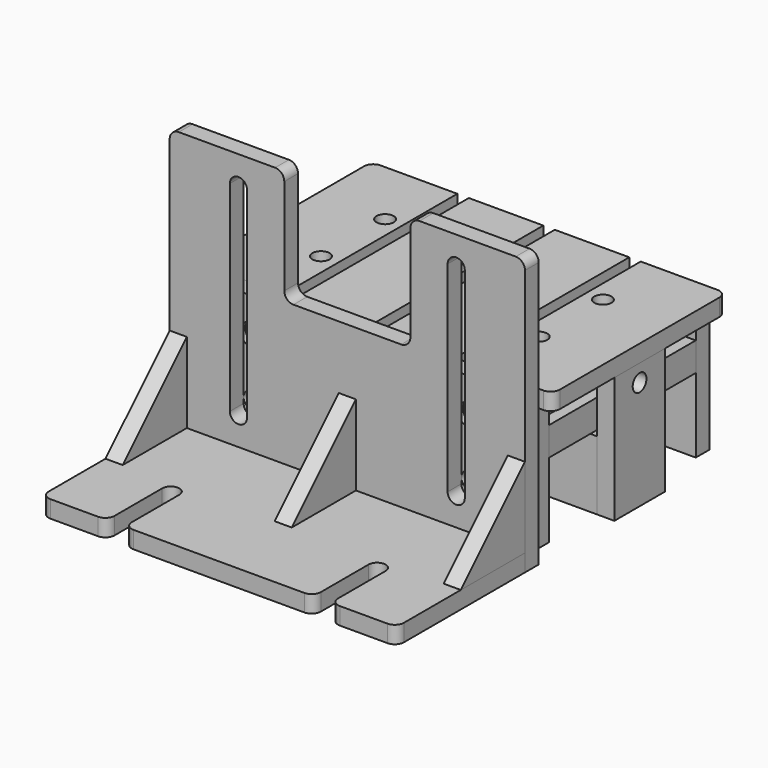
from build123d import *

# Parameters (mm, degrees)
F0_W      = 196.85
F0_H      = 120.65
F1_DEPTH  = 38.1
F3_DEPTH  = 120.651
F4_W      = 196.85
F4_H      = 120.65
F4_W_2    = 177.8
F4_H_2    = 101.6
F5_DEPTH  = 28.575
F6_W      = 6.35
F6_H      = 120.65
F7_DEPTH  = 6.35
F8_R      = 4.7625
F9_DEPTH  = 19.05
F11_DEPTH = 177.8
F10_W     = 9.525
F10_H     = 69.85
F12_R     = 6.35
F12_R_2   = 4.7625
F13_DEPTH = 3.175
F14_DEPTH = 130.176
F15_R     = 6.35
F15_R_2   = 4.7625
F16_DEPTH = 3.175
F17_DEPTH = 19.05
F12_W     = 12.7
F12_H     = 3.175
F18_DEPTH = 130.176
F19_W     = 34.925
F19_H     = 38.1
F20_DEPTH = 177.8
F21_W     = 34.925
F21_H     = 69.85
F21_R     = 4.7625
F22_DEPTH = 9.525
F24_W     = 196.85
F24_H     = 152.4
F25_DEPTH = 9.525
F26_W     = 69.85
F26_H     = 63.5
F27_DEPTH = 139.701
F28_W     = 9.525
F28_H     = 44.45
F29_DEPTH = 44.45
F31_DEPTH = 196.851
F33_DEPTH = 9.525
F34_R     = 5.08
F34_2_R   = 5.08
F34_3_R   = 5.08


with BuildPart() as f1:
    # F0 (on Top) → F1 (new body)
    with BuildSketch(Plane.XY):
        Rectangle(F0_W, F0_H)
    extrude(amount=F1_DEPTH)

    # F2 (on face) → F3 (cut, through all)
    with BuildSketch(Plane.XZ.offset(60.325)):
        Polygon((-98.425, 22.225), (-98.425, 19.05), (-98.425, 15.875), (-82.55, 15.875), (-82.55, 12.7), (-76.2, 12.7), (-76.2, 19.05), (-76.2, 25.4), (-82.55, 25.4), (-82.55, 22.225), align=None)
        Polygon((98.425, 22.225), (82.55, 22.225), (82.55, 25.4), (76.2, 25.4), (76.2, 19.05), (76.2, 12.7), (82.55, 12.7), (82.55, 15.875), (98.425, 15.875), (98.425, 19.05), align=None)
        Polygon((0, 38.1), (-3.175, 38.1), (-3.175, 31.75), (-6.35, 31.75), (-6.35, 25.4), (0, 25.4), (6.35, 25.4), (6.35, 31.75), (3.175, 31.75), (3.175, 38.1), align=None)
    extrude(amount=-F3_DEPTH, mode=Mode.SUBTRACT)

    # F4 (on face) → F5 (cut)
    with BuildSketch(Plane(origin=(0, 0, 0), x_dir=(1, 0, 0), z_dir=(0, 0, -1))):
        Rectangle(F4_W, F4_H)
        Rectangle(F4_W_2, F4_H_2, mode=Mode.SUBTRACT)
    extrude(amount=-F5_DEPTH, mode=Mode.SUBTRACT)

    # F6 (on face) → F7 (cut)
    with BuildSketch(Plane.XY.offset(38.1)):
        with Locations((-47.625, 0)):
            Rectangle(F6_W, F6_H)
        with Locations((47.625, 0)):
            Rectangle(F6_W, F6_H)
    extrude(amount=-F7_DEPTH, mode=Mode.SUBTRACT)

    # F8 (on face) → F9 (cut)
    with BuildSketch(Plane.XY.offset(38.1)):
        with Locations((-60.325, 22.225)):
            Circle(F8_R)
        with Locations((-60.325, -22.225)):
            Circle(F8_R)
        with Locations((60.325, -22.225)):
            Circle(F8_R)
        with Locations((60.325, 22.225)):
            Circle(F8_R)
    extrude(amount=-F9_DEPTH, mode=Mode.SUBTRACT)


with BuildPart() as f11:
    # F10 (on face) → F11 (new body, through all)
    with BuildSketch(Plane.YZ.offset(88.9)):
        Polygon((-50.8, -41.275), (-50.8, 28.575), (-60.325, 28.575), (-60.325, 38.1), (-69.85, 38.1), (-69.85, -41.275), align=None)
    extrude(amount=-F11_DEPTH)


with BuildPart() as f11b:
    # F10 (on face) → F11, piece 2 (new body, through all)
    with BuildSketch(Plane.YZ.offset(88.9)):
        with Locations((55.5625, -6.35)):
            Rectangle(F10_W, F10_H)
    extrude(amount=-F11_DEPTH)

    # F12 (on face) → F13 (cut)
    with BuildSketch(Plane(origin=(0, 60.325, 0), x_dir=(-1, 0, 0), z_dir=(0, 1, 0))):
        with Locations((-60.325, 19.05)):
            Circle(F12_R)
        with Locations((-60.325, 19.05)):
            Circle(F12_R_2, mode=Mode.SUBTRACT)
        with Locations((-60.325, 19.05)):
            Circle(F12_R_2)
        with Locations((60.325, 19.05)):
            Circle(F12_R)
        with Locations((60.325, 19.05)):
            Circle(F12_R_2, mode=Mode.SUBTRACT)
        with Locations((60.325, 19.05)):
            Circle(F12_R_2)
    extrude(amount=-F13_DEPTH, mode=Mode.SUBTRACT)


with BuildPart() as f14_tool:
    # F12 (on face) → F14 (new body, through all)
    with BuildSketch(Plane(origin=(0, 60.325, 0), x_dir=(-1, 0, 0), z_dir=(0, 1, 0))):
        with Locations((-60.325, 19.05)):
            Circle(F12_R_2)
        with Locations((60.325, 19.05)):
            Circle(F12_R_2)
    extrude(amount=-F14_DEPTH)


with BuildPart() as f1_1:
    add(f1.part)

    # F14: cut by f14_tool
    add(f14_tool.part, mode=Mode.SUBTRACT)

    # F34#3
    f34_3_edges = [f1_1.edges().sort_by_distance(p)[0] for p in [
        (98.425, 60.325, 33.3375),
        (98.425, -60.325, 33.3375),
        (-98.425, -60.325, 33.3375),
        (-98.425, 60.325, 33.3375),
    ]]
    fillet(f34_3_edges, radius=F34_3_R)


with BuildPart() as f11_1:
    add(f11.part)

    # F14: cut by f14_tool
    add(f14_tool.part, mode=Mode.SUBTRACT)

    # F15 (on face) → F16 (cut)
    with BuildSketch(Plane.XZ.offset(69.85)):
        with Locations((-60.325, 19.05)):
            Circle(F15_R)
        with Locations((-60.325, 19.05)):
            Circle(F15_R_2, mode=Mode.SUBTRACT)
        with Locations((60.325, 19.05)):
            Circle(F15_R)
        with Locations((60.325, 19.05)):
            Circle(F15_R_2, mode=Mode.SUBTRACT)
        with Locations((60.325, 19.05)):
            Circle(F15_R_2)
        with Locations((-60.325, 19.05)):
            Circle(F15_R_2)
    extrude(amount=-F16_DEPTH, mode=Mode.SUBTRACT)

    # F15 (on face) → F17 (cut, through all)
    with BuildSketch(Plane.XZ.offset(69.85)):
        with Locations((-60.325, -12.7)):
            Circle(F15_R_2)
        with Locations((60.325, -12.7)):
            Circle(F15_R_2)
    extrude(amount=-F17_DEPTH, mode=Mode.SUBTRACT)


with BuildPart() as f11b_1:
    add(f11b.part)

    # F14: cut by f14_tool
    add(f14_tool.part, mode=Mode.SUBTRACT)

    # F12 (on face) → F18 (cut, through all)
    with BuildSketch(Plane(origin=(0, 60.325, 0), x_dir=(-1, 0, 0), z_dir=(0, 1, 0))):
        with Locations((0, 26.9875)):
            Rectangle(F12_W, F12_H)
    extrude(amount=-F18_DEPTH, mode=Mode.SUBTRACT)


with BuildPart() as f20:
    # F19 (on face) → F20 (new body, through all)
    with BuildSketch(Plane.YZ.offset(88.9)):
        with Locations((0, -22.225)):
            Rectangle(F19_W, F19_H)
    extrude(amount=-F20_DEPTH)


with BuildPart() as f22:
    # F21 (on face) → F22 (new body)
    with BuildSketch(Plane.YZ.offset(88.9)):
        with Locations((0, -6.35)):
            Rectangle(F21_W, F21_H)
        with Locations((0, 19.05)):
            Circle(F21_R, mode=Mode.SUBTRACT)
    extrude(amount=F22_DEPTH)


with BuildPart() as f23_1:
    # F23: instance of F22
    add(f22.part.mirror(Plane.YZ))


with BuildPart() as f25:
    # F24 (on face) → F25 (new body)
    with BuildSketch(Plane.XZ.offset(69.85)):
        with Locations((0, 34.925)):
            Rectangle(F24_W, F24_H)
    extrude(amount=F25_DEPTH)

    # F26 (on face) → F27 (cut, through all)
    with BuildSketch(Plane.XZ.offset(79.375)):
        with BuildLine():
            ThreePointArc((-65.0875, -15.875), (-60.325, -20.6375), (-55.5625, -15.875))
            Line((-55.5625, -15.875), (-55.5625, 95.25))
            ThreePointArc((-55.5625, 95.25), (-60.325, 100.0125), (-65.0875, 95.25))
            Line((-65.0875, 95.25), (-65.0875, -15.875))
        make_face()
        with BuildLine():
            Line((55.5625, 95.25), (55.5625, -15.875))
            ThreePointArc((55.5625, -15.875), (60.325, -20.6375), (65.0875, -15.875))
            Line((65.0875, -15.875), (65.0875, 95.25))
            ThreePointArc((65.0875, 95.25), (60.325, 100.0125), (55.5625, 95.25))
        make_face()
        with Locations((0, 79.375)):
            Rectangle(F26_W, F26_H)
    extrude(amount=-F27_DEPTH, mode=Mode.SUBTRACT)

    # F34
    f34_edges = [f25.edges().sort_by_distance(p)[0] for p in [
        (-98.425, -74.6125, 111.125),
        (-34.925, -74.6125, 111.125),
        (34.925, -74.6125, 111.125),
        (98.425, -74.6125, 111.125),
        (-34.925, -74.6125, 47.625),
        (34.925, -74.6125, 47.625),
    ]]
    fillet(f34_edges, radius=F34_R)


with BuildPart() as f29:
    # F28 (on face) → F29 (new body)
    with BuildSketch(Plane.XZ.offset(79.375)):
        with Locations((-93.6625, -9.525)):
            Rectangle(F28_W, F28_H)
    extrude(amount=F29_DEPTH)


with BuildPart() as f29b:
    # F28 (on face) → F29, piece 2 (new body)
    with BuildSketch(Plane.XZ.offset(79.375)):
        with Locations((93.6625, -9.525)):
            Rectangle(F28_W, F28_H)
    extrude(amount=F29_DEPTH)


with BuildPart() as f29c:
    # F28 (on face) → F29, piece 3 (new body)
    with BuildSketch(Plane.XZ.offset(79.375)):
        with Locations((0, -9.525)):
            Rectangle(F28_W, F28_H)
    extrude(amount=F29_DEPTH)


with BuildPart() as f31_tool:
    # F30 (on face) → F31 (new body, through all)
    with BuildSketch(Plane(origin=(-98.425, 0, 0), x_dir=(0, -1, 0), z_dir=(-1, 0, 0))):
        Polygon((123.825, 12.7), (79.375, 12.7), (123.825, -31.75), align=None)
    extrude(amount=-F31_DEPTH)


with BuildPart() as f29_1:
    add(f29.part)

    # F31: cut by f31_tool
    add(f31_tool.part, mode=Mode.SUBTRACT)


with BuildPart() as f29b_1:
    add(f29b.part)

    # F31: cut by f31_tool
    add(f31_tool.part, mode=Mode.SUBTRACT)


with BuildPart() as f29c_1:
    add(f29c.part)

    # F31: cut by f31_tool
    add(f31_tool.part, mode=Mode.SUBTRACT)


with BuildPart() as f33:
    # F32 (on face) → F33 (new body)
    with BuildSketch(Plane(origin=(0, 0, -41.275), x_dir=(1, 0, 0), z_dir=(0, 0, -1))):
        with BuildLine():
            Line((-98.425, 168.275), (-98.425, 79.375))
            Line((-98.425, 79.375), (98.425, 79.375))
            Line((98.425, 79.375), (98.425, 168.275))
            Line((98.425, 168.275), (61.9125, 168.275))
            Line((61.9125, 168.275), (61.9125, 130.175))
            ThreePointArc((61.9125, 130.175), (57.15, 125.4125), (52.3875, 130.175))
            Line((52.3875, 130.175), (52.3875, 168.275))
            Line((52.3875, 168.275), (-52.3875, 168.275))
            Line((-52.3875, 168.275), (-52.3875, 130.175))
            ThreePointArc((-52.3875, 130.175), (-57.15, 125.4125), (-61.9125, 130.175))
            Line((-61.9125, 130.175), (-61.9125, 168.275))
            Line((-61.9125, 168.275), (-98.425, 168.275))
        make_face()
    extrude(amount=-F33_DEPTH)

    # F34#2
    f34_2_edges = [f33.edges().sort_by_distance(p)[0] for p in [
        (-61.9125, -168.275, -36.5125),
        (-52.3875, -168.275, -36.5125),
        (52.3875, -168.275, -36.5125),
        (61.9125, -168.275, -36.5125),
        (-98.425, -168.275, -36.5125),
        (98.425, -168.275, -36.5125),
    ]]
    fillet(f34_2_edges, radius=F34_2_R)


solid = Compound([f1_1.part, f11_1.part, f11b_1.part, f20.part, f22.part, f23_1.part, f25.part, f29_1.part, f29b_1.part, f29c_1.part, f33.part])
